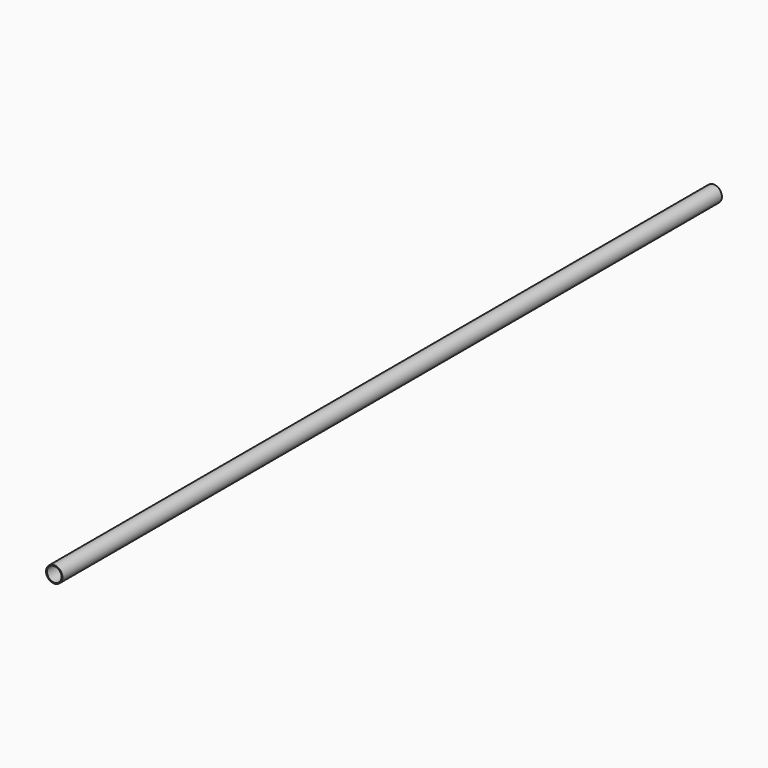
from build123d import *

# Parameters (mm, degrees)
F1_R   = 30.1625
F1_R_2 = 26.9875


with BuildPart() as f2:
    # F2: sweep along a path in F0
    with BuildLine(Plane.XY) as f2_path:
        Line((0, 0), (0, 3048))
    # F1 (on Front) → F2 (sweep)
    with BuildSketch(Plane.XZ):
        Circle(F1_R)
        Circle(F1_R_2, mode=Mode.SUBTRACT)
    sweep(path=f2_path.line)


solid = f2.part
